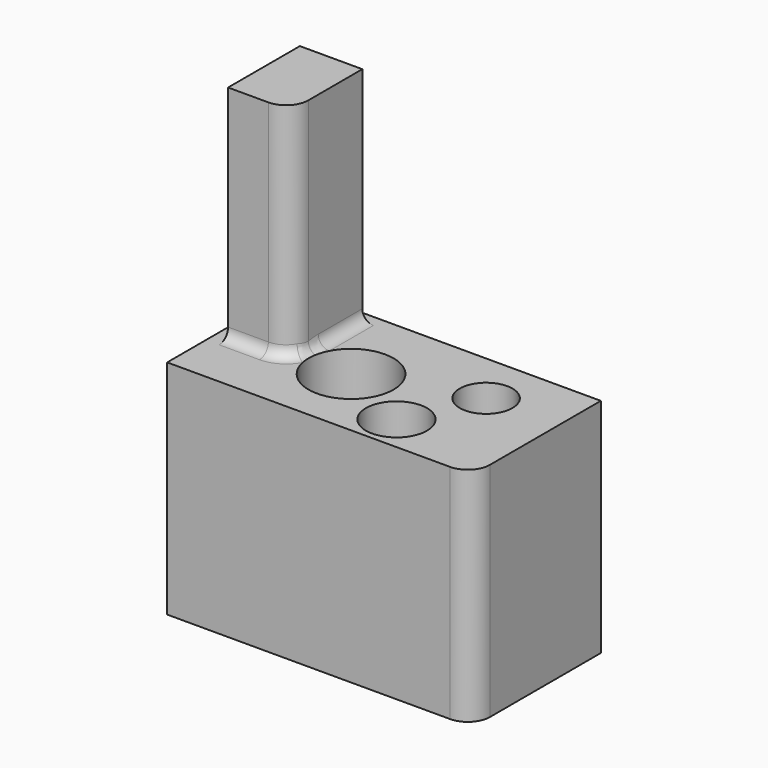
from build123d import *

# Parameters (mm, degrees)
SKETCH_W        = 13.739303
SKETCH_H        = 7.240993
PAD_DEPTH       = 10
FILLET_R        = 1
SKETCH001_R     = 1.912834
POCKET_DEPTH    = 10.001
SKETCH002_R     = 1.188533
SKETCH002_R_2   = 1.377063
POCKET001_DEPTH = 10.001
SKETCH003_W     = 2.814273
SKETCH003_H     = 4.040293
PAD001_DEPTH    = 10
FILLET001_R     = 1
FILLET002_R     = 0.5


with BuildPart() as part:
    # Sketch → Pad (new body)
    with BuildSketch(Plane.XY):
        with Locations((9.376143, 5.56999)):
            Rectangle(SKETCH_W, SKETCH_H)
    extrude(amount=PAD_DEPTH)

    # Fillet
    fillet_edges = [part.edges().sort_by_distance(p)[0] for p in [
        (16.245794, 1.949493, 5),
    ]]
    fillet(fillet_edges, radius=FILLET_R)

    # Sketch001 → Pocket (cut, through all)
    with BuildSketch(Plane.XY.offset(10)):
        with Locations((8.105963, 5.301824)):
            Circle(SKETCH001_R)
    extrude(amount=-POCKET_DEPTH, mode=Mode.SUBTRACT)

    # Sketch002 → Pocket001 (cut, through all)
    with BuildSketch(Plane.XY.offset(10)):
        with Locations((12.974515, 6.821315)):
            Circle(SKETCH002_R)
        with Locations((11.517051, 3.596284)):
            Circle(SKETCH002_R_2)
    extrude(amount=-POCKET001_DEPTH, mode=Mode.SUBTRACT)

    # Sketch003 → Pad001 (new body)
    with BuildSketch(Plane.XY.offset(10)):
        with Locations((4.507165, 6.656808)):
            Rectangle(SKETCH003_W, SKETCH003_H)
    extrude(amount=PAD001_DEPTH)

    # Fillet001
    fillet001_edges = [part.edges().sort_by_distance(p)[0] for p in [
        (5.914301, 4.636662, 15),
    ]]
    fillet(fillet001_edges, radius=FILLET001_R)

    # Fillet002
    fillet002_edges = [part.edges().sort_by_distance(p)[0] for p in [
        (5.914301, 7.156809, 10),
        (5.621408, 4.929555, 10),
        (4.007165, 4.636662, 10),
    ]]
    fillet(fillet002_edges, radius=FILLET002_R)


solid = part.part
